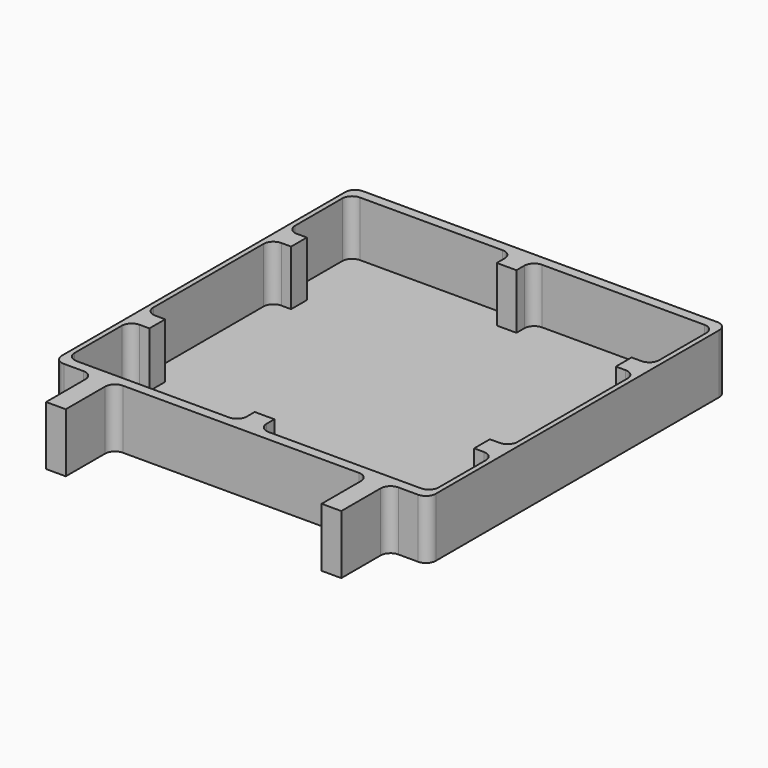
from build123d import *

# Parameters (mm, degrees)
F1_DEPTH = 19.05
F3_DEPTH = 17.78


with BuildPart() as f1:
    # F0 (on Top) → F1 (new body)
    with BuildSketch(Plane.XY):
        with BuildLine():
            Line((59.698993, 65.978541), (-54.601007, 65.978541))
            ThreePointArc((-54.601007, 65.978541), (-56.846071, 65.048605), (-57.776007, 62.803541))
            Line((-57.776007, 62.803541), (-57.776007, -51.496459))
            ThreePointArc((-57.776007, -51.496459), (-56.846071, -53.741523), (-54.601007, -54.671459))
            Line((-54.601007, -54.671459), (-48.251007, -54.671459))
            ThreePointArc((-48.251007, -54.671459), (-46.005943, -55.601395), (-45.076007, -57.846459))
            Line((-45.076007, -57.846459), (-45.076007, -73.721459))
            Line((-45.076007, -73.721459), (-38.726007, -73.721459))
            Line((-38.726007, -73.721459), (-38.726007, -57.846459))
            ThreePointArc((-38.726007, -57.846459), (-37.796071, -55.601395), (-35.551007, -54.671459))
            Line((-35.551007, -54.671459), (40.648993, -54.671459))
            ThreePointArc((40.648993, -54.671459), (42.894057, -55.601395), (43.823993, -57.846459))
            Line((43.823993, -57.846459), (43.823993, -73.721459))
            Line((43.823993, -73.721459), (50.173993, -73.721459))
            Line((50.173993, -73.721459), (50.173993, -57.846459))
            ThreePointArc((50.173993, -57.846459), (51.103929, -55.601395), (53.348993, -54.671459))
            Line((53.348993, -54.671459), (59.698993, -54.671459))
            ThreePointArc((59.698993, -54.671459), (61.944057, -53.741523), (62.873993, -51.496459))
            Line((62.873993, -51.496459), (62.873993, 62.803541))
            ThreePointArc((62.873993, 62.803541), (61.944057, 65.048605), (59.698993, 65.978541))
        make_face()
    extrude(amount=F1_DEPTH)

    # F2 (on face) → F3 (cut)
    with BuildSketch(Plane.XY.offset(19.05)):
        with BuildLine():
            Line((-6.976007, 62.803541), (-53.013507, 62.803541))
            ThreePointArc((-53.013507, 62.803541), (-55.258571, 61.873605), (-56.188507, 59.628541))
            Line((-56.188507, 59.628541), (-56.188507, 40.578541))
            ThreePointArc((-56.188507, 40.578541), (-55.258571, 38.333477), (-53.013507, 37.403541))
            Line((-53.013507, 37.403541), (-49.838507, 37.403541))
            Line((-49.838507, 37.403541), (-49.838507, 31.053541))
            Line((-49.838507, 31.053541), (-53.013507, 31.053541))
            ThreePointArc((-53.013507, 31.053541), (-55.258571, 30.123605), (-56.188507, 27.878541))
            Line((-56.188507, 27.878541), (-56.188507, -16.571459))
            ThreePointArc((-56.188507, -16.571459), (-55.258571, -18.816523), (-53.013507, -19.746459))
            Line((-53.013507, -19.746459), (-49.838507, -19.746459))
            Line((-49.838507, -19.746459), (-49.838507, -26.096459))
            Line((-49.838507, -26.096459), (-53.013507, -26.096459))
            ThreePointArc((-53.013507, -26.096459), (-55.258571, -27.026395), (-56.188507, -29.271459))
            Line((-56.188507, -29.271459), (-56.188507, -48.321459))
            ThreePointArc((-56.188507, -48.321459), (-55.258571, -50.566523), (-53.013507, -51.496459))
            Line((-53.013507, -51.496459), (-3.801007, -51.496459))
            ThreePointArc((-3.801007, -51.496459), (-1.555943, -50.566523), (-0.626007, -48.321459))
            Line((-0.626007, -48.321459), (-0.626007, -45.146459))
            Line((-0.626007, -45.146459), (5.723993, -45.146459))
            Line((5.723993, -45.146459), (5.723993, -48.321459))
            ThreePointArc((5.723993, -48.321459), (6.653929, -50.566523), (8.898993, -51.496459))
            Line((8.898993, -51.496459), (58.111493, -51.496459))
            ThreePointArc((58.111493, -51.496459), (60.356557, -50.566523), (61.286493, -48.321459))
            Line((61.286493, -48.321459), (61.286493, -29.271459))
            ThreePointArc((61.286493, -29.271459), (60.356557, -27.026395), (58.111493, -26.096459))
            Line((58.111493, -26.096459), (54.936493, -26.096459))
            Line((54.936493, -26.096459), (54.936493, -19.746459))
            Line((54.936493, -19.746459), (58.111493, -19.746459))
            ThreePointArc((58.111493, -19.746459), (60.356557, -18.816523), (61.286493, -16.571459))
            Line((61.286493, -16.571459), (61.286493, 27.878541))
            ThreePointArc((61.286493, 27.878541), (60.356557, 30.123605), (58.111493, 31.053541))
            Line((58.111493, 31.053541), (54.936493, 31.053541))
            Line((54.936493, 31.053541), (54.936493, 37.403541))
            Line((54.936493, 37.403541), (58.111493, 37.403541))
            ThreePointArc((58.111493, 37.403541), (60.356557, 38.333477), (61.286493, 40.578541))
            Line((61.286493, 40.578541), (61.286493, 59.628541))
            ThreePointArc((61.286493, 59.628541), (60.356557, 61.873605), (58.111493, 62.803541))
            Line((58.111493, 62.803541), (5.723993, 62.803541))
            ThreePointArc((5.723993, 62.803541), (3.478929, 61.873605), (2.548993, 59.628541))
            Line((2.548993, 59.628541), (2.548993, 56.453541))
            Line((2.548993, 56.453541), (-3.801007, 56.453541))
            Line((-3.801007, 56.453541), (-3.801007, 59.628541))
            ThreePointArc((-3.801007, 59.628541), (-4.730943, 61.873605), (-6.976007, 62.803541))
        make_face()
    extrude(amount=-F3_DEPTH, mode=Mode.SUBTRACT)


solid = f1.part
